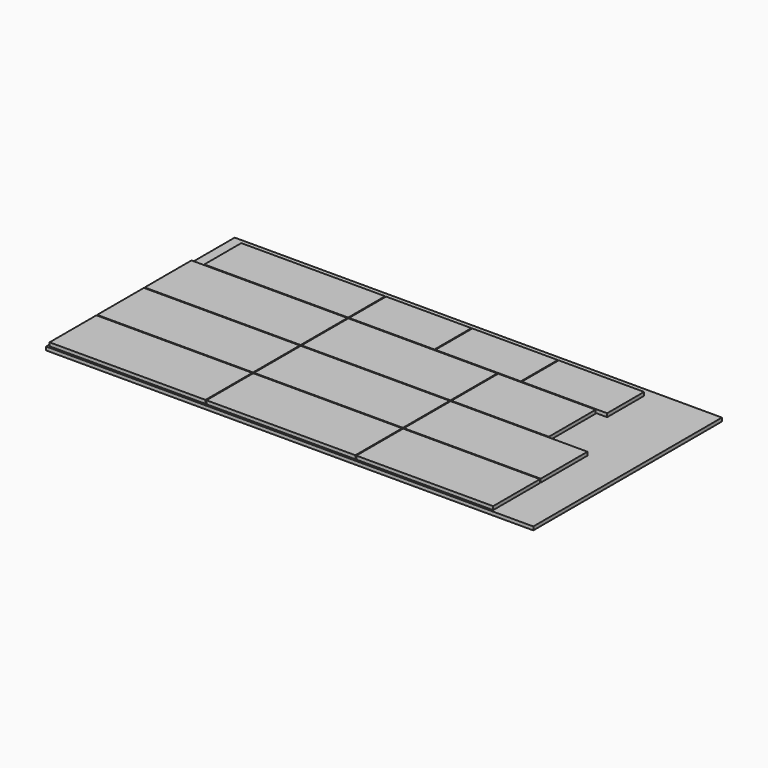
from build123d import *

# Parameters (mm, degrees)
F0_W     = 2500
F0_H     = 1210
F1_DEPTH = 18
F2_W     = 738
F2_H     = 237
F2_W_2   = 800
F2_H_2   = 300
F2_W_3   = 764
F2_W_4   = 438
F2_W_5   = 500
F2_W_6   = 702
F3_DEPTH = 18


with BuildPart() as f1:
    # F0 (on Top) → F1 (new body)
    with BuildSketch(Plane.XY):
        with Locations((1250, 605)):
            Rectangle(F0_W, F0_H)
    extrude(amount=F1_DEPTH)


with BuildPart() as f3:
    # F2 (on face) → F3 (new body)
    with BuildSketch(Plane.XY.offset(18)):
        with Locations((441, 1043.5)):
            Rectangle(F2_W, F2_H)
        with Locations((410, 770)):
            Rectangle(F2_W_2, F2_H_2)
        with Locations((410, 465)):
            Rectangle(F2_W_2, F2_H_2)
        with Locations((410, 160)):
            Rectangle(F2_W_2, F2_H_2)
        with Locations((1197, 160)):
            Rectangle(F2_W_3, F2_H_2)
        with Locations((1197, 465)):
            Rectangle(F2_W_3, F2_H_2)
        with Locations((1197, 770)):
            Rectangle(F2_W_3, F2_H_2)
        with Locations((1034, 1043.5)):
            Rectangle(F2_W_4, F2_H)
        with Locations((1477, 1043.5)):
            Rectangle(F2_W_4, F2_H)
        with Locations((1920, 1043.5)):
            Rectangle(F2_W_4, F2_H)
        with Locations((1834, 770)):
            Rectangle(F2_W_5, F2_H_2)
        with Locations((1935, 465)):
            Rectangle(F2_W_6, F2_H_2)
        with Locations((1935, 160)):
            Rectangle(F2_W_6, F2_H_2)
    extrude(amount=F3_DEPTH)


solid = Compound([f1.part, f3.part])
